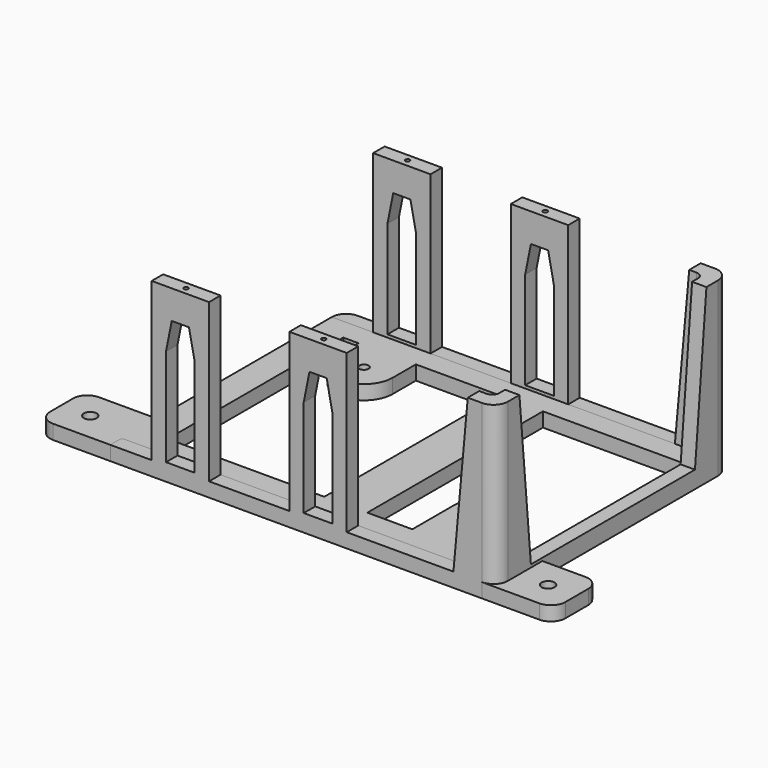
from build123d import *

# Parameters (mm, degrees)
F0_R      = 2.25
F0_R_2    = 1.6
F1_DEPTH  = 5
F2_DEPTH  = 60
F3_R      = 0.75
F4_DEPTH  = 20
F6_DEPTH  = 25
F9_W      = 28
F9_H      = 55
F10_DEPTH = 200
F12_DEPTH = 200
F13_DEPTH = 200
F15_DEPTH = 100
F9_W_2    = 14.415
F16_DEPTH = 222


with BuildPart() as f1:
    # F0 (on Top) → F1 (new body)
    with BuildSketch(Plane.XY):
        with BuildLine():
            Line((42.396549, 48.210974), (-84.703451, 48.210974))
            Line((-84.703451, 48.210974), (-84.703451, -27.289026))
            ThreePointArc((-84.703451, -27.289026), (-84.996345, -27.996132), (-85.703451, -28.289026))
            Line((-85.703451, -28.289026), (-104.703451, -28.289026))
            ThreePointArc((-104.703451, -28.289026), (-108.238985, -29.753492), (-109.703451, -33.289026))
            Line((-109.703451, -33.289026), (-109.703451, -43.289026))
            ThreePointArc((-109.703451, -43.289026), (-108.238985, -46.82456), (-104.703451, -48.289026))
            Line((-104.703451, -48.289026), (-84.703451, -48.289026))
            Line((-84.703451, -48.289026), (-84.703451, -44.289026))
            ThreePointArc((-84.703451, -44.289026), (-84.410558, -43.581919), (-83.703451, -43.289026))
            Line((-83.703451, -43.289026), (42.396549, -43.289026))
            ThreePointArc((42.396549, -43.289026), (44.164316, -42.556793), (44.896549, -40.789026))
            Line((44.896549, -40.789026), (44.896549, 45.710974))
            ThreePointArc((44.896549, 45.710974), (44.164316, 47.478741), (42.396549, 48.210974))
        make_face()
        with Locations((-99.703451, -38.289026)):
            Circle(F0_R, mode=Mode.SUBTRACT)
        with Locations((20.576549, -17.589026)):
            Circle(F0_R_2, mode=Mode.SUBTRACT)
        with Locations((-59.403451, 30.610974)):
            Circle(F0_R_2, mode=Mode.SUBTRACT)
        with BuildLine():
            Line((64.896549, -28.289026), (49.896549, -28.289026))
            Line((49.896549, -28.289026), (49.896549, -43.289026))
            ThreePointArc((49.896549, -43.289026), (48.432083, -46.82456), (44.896549, -48.289026))
            Line((44.896549, -48.289026), (64.896549, -48.289026))
            ThreePointArc((64.896549, -48.289026), (68.432083, -46.82456), (69.896549, -43.289026))
            Line((69.896549, -43.289026), (69.896549, -33.289026))
            ThreePointArc((69.896549, -33.289026), (68.432083, -29.753492), (64.896549, -28.289026))
        make_face()
        with Locations((59.896549, -38.289026)):
            Circle(F0_R, mode=Mode.SUBTRACT)
    extrude(amount=F1_DEPTH)

    # F14 (on face) → F15 (cut)
    with BuildSketch(Plane.XY.offset(5)):
        with BuildLine():
            ThreePointArc((-49.403451, 30.610974), (-59.403451, 20.610974), (-69.403451, 30.610974))
            Line((-69.403451, 30.610974), (-69.403451, 40.710974))
            Line((-69.403451, 40.710974), (-74.703451, 40.710974))
            Line((-74.703451, 40.710974), (-74.703451, -35.789026))
            Line((-74.703451, -35.789026), (-20.103451, -35.789026))
            Line((-20.103451, -35.789026), (-20.103451, 40.710974))
            Line((-20.103451, 40.710974), (-49.403451, 40.710974))
            Line((-49.403451, 40.710974), (-49.403451, 30.610974))
        make_face()
        with BuildLine():
            Line((44.896549, 40.710974), (-5.103451, 40.710974))
            Line((-5.103451, 40.710974), (-5.103451, -35.789026))
            Line((-5.103451, -35.789026), (10.576549, -35.789026))
            Line((10.576549, -35.789026), (10.576549, -17.589026))
            ThreePointArc((10.576549, -17.589026), (20.576549, -7.589026), (30.576549, -17.589026))
            Line((30.576549, -17.589026), (30.576549, -35.789026))
            Line((30.576549, -35.789026), (44.896549, -35.789026))
            Line((44.896549, -35.789026), (44.896549, 40.710974))
        make_face()
    extrude(amount=-F15_DEPTH, mode=Mode.SUBTRACT)


with BuildPart() as f2:
    # F0 (on Top) → F2 (new body)
    with BuildSketch(Plane.XY):
        with BuildLine():
            Line((44.896549, 53.210974), (-79.703451, 53.210974))
            ThreePointArc((-79.703451, 53.210974), (-83.238985, 51.746508), (-84.703451, 48.210974))
            Line((-84.703451, 48.210974), (42.396549, 48.210974))
            ThreePointArc((42.396549, 48.210974), (44.164316, 47.478741), (44.896549, 45.710974))
            Line((44.896549, 45.710974), (44.896549, -40.789026))
            ThreePointArc((44.896549, -40.789026), (44.164316, -42.556793), (42.396549, -43.289026))
            Line((42.396549, -43.289026), (-83.703451, -43.289026))
            ThreePointArc((-83.703451, -43.289026), (-84.410558, -43.581919), (-84.703451, -44.289026))
            Line((-84.703451, -44.289026), (-84.703451, -48.289026))
            Line((-84.703451, -48.289026), (44.896549, -48.289026))
            ThreePointArc((44.896549, -48.289026), (48.432083, -46.82456), (49.896549, -43.289026))
            Line((49.896549, -43.289026), (49.896549, -28.289026))
            Line((49.896549, -28.289026), (49.896549, 48.210974))
            ThreePointArc((49.896549, 48.210974), (48.432083, 51.746508), (44.896549, 53.210974))
        make_face()
    extrude(amount=F2_DEPTH)

    # F3 (on face) → F4 (cut)
    with BuildSketch(Plane.XY.offset(60)):
        with Locations((-12.288451, 50.710974)):
            Circle(F3_R)
        with Locations((-60.288451, 50.710974)):
            Circle(F3_R)
        with Locations((-60.288451, -45.789026)):
            Circle(F3_R)
        with Locations((-12.288451, -45.789026)):
            Circle(F3_R)
    extrude(amount=-F4_DEPTH, mode=Mode.SUBTRACT)

    # F5 (on face) → F6 (cut)
    with BuildSketch(Plane.YZ.offset(49.896549)):
        Polygon((43.210974, 60), (-38.289026, 60), (-33.289026, 6), (38.210974, 6), align=None)
    extrude(amount=-F6_DEPTH, mode=Mode.SUBTRACT)

    # F9 (on face) → F10 (cut)
    with BuildSketch(Plane.XZ.offset(48.289026)):
        with Locations((-36.288451, 32.5)):
            Rectangle(F9_W, F9_H)
        Polygon((-2.288451, 5), (34.896549, 5), (39.896549, 60), (-2.288451, 60), align=None)
    extrude(amount=-F10_DEPTH, mode=Mode.SUBTRACT)

    # F11 (on face) → F12 (cut)
    with BuildSketch(Plane.XZ.offset(48.289026)):
        Polygon((-84.703451, 60), (-84.703451, 5), (-70.288451, 60), align=None)
    extrude(amount=-F12_DEPTH, mode=Mode.SUBTRACT)

    # F9 (on face) → F13 (cut)
    with BuildSketch(Plane.XZ.offset(48.289026)):
        Polygon((-57.288451, 50), (-63.288451, 50), (-65.288451, 40), (-65.288451, 6), (-55.288451, 6), (-55.288451, 40), align=None)
        Polygon((-17.288451, 40), (-17.288451, 6), (-7.288451, 6), (-7.288451, 40), (-9.288451, 50), (-15.288451, 50), align=None)
    extrude(amount=-F13_DEPTH, mode=Mode.SUBTRACT)

    # F9 (on face) → F16 (cut)
    with BuildSketch(Plane.XZ.offset(48.289026)):
        with Locations((-77.495951, 32.5)):
            Rectangle(F9_W_2, F9_H)
    extrude(amount=-F16_DEPTH, mode=Mode.SUBTRACT)


solid = Compound([f1.part, f2.part])
